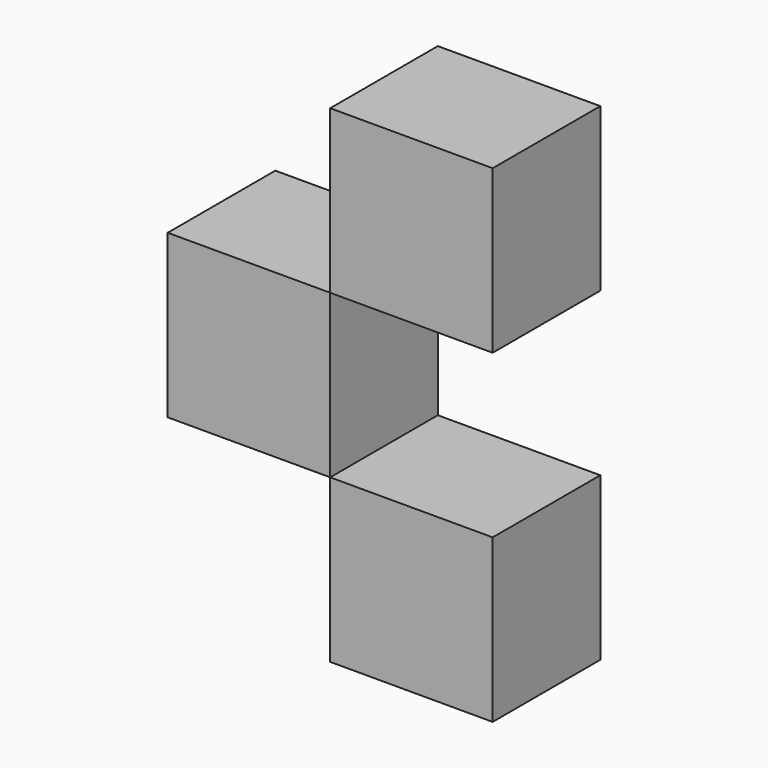
from build123d import *

# Parameters (mm, degrees)
F0_W     = 30.676522
F0_H     = 30.676521
F0_W_2   = 30.676521
F0_H_2   = 30.676522
F1_DEPTH = 25.4


with BuildPart() as f1:
    # F0 (on Front) → F1 (new body)
    with BuildSketch(Plane.XZ):
        with Locations((-46.014782, 23.556059)):
            Rectangle(F0_W, F0_H)
        with Locations((-15.33826, 54.23258)):
            Rectangle(F0_W_2, F0_H)
        with Locations((-15.33826, -7.120462)):
            Rectangle(F0_W_2, F0_H_2)
    extrude(amount=F1_DEPTH)


solid = f1.part
